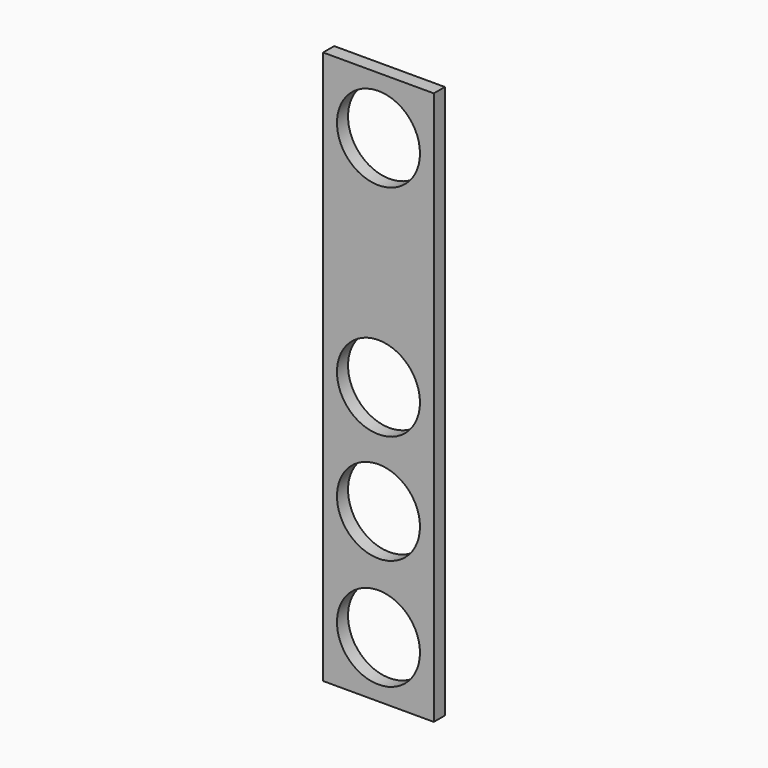
from build123d import *

# Parameters (mm, degrees)
F0_W     = 25.4
F0_H     = 127
F1_DEPTH = 1.5875
F2_R     = 9.525
F3_DEPTH = 25.4
F4_R     = 9.525
F5_DEPTH = 25.4
F6_R     = 9.525
F7_DEPTH = 25.4
F8_R     = 9.525
F9_DEPTH = 25.4


with BuildPart() as f1:
    # F0 (on Front) → F1 (new body, symmetric)
    with BuildSketch(Plane.XZ):
        Rectangle(F0_W, F0_H)
    extrude(amount=F1_DEPTH, both=True)

    # F2 (on face) → F3 (cut)
    with BuildSketch(Plane.XZ.offset(1.5875)):
        with Locations((0, 50.328158)):
            Circle(F2_R)
    extrude(amount=-F3_DEPTH, mode=Mode.SUBTRACT)

    # F4 (on face) → F5 (cut)
    with BuildSketch(Plane.XZ.offset(1.5875)):
        with Locations((0, -50.553336)):
            Circle(F4_R)
    extrude(amount=-F5_DEPTH, mode=Mode.SUBTRACT)

    # F6 (on face) → F7 (cut)
    with BuildSketch(Plane.XZ.offset(1.5875)):
        Circle(F6_R)
    extrude(amount=-F7_DEPTH, mode=Mode.SUBTRACT)

    # F8 (on face) → F9 (cut)
    with BuildSketch(Plane.XZ.offset(1.5875)):
        with Locations((0, -25.097863)):
            Circle(F8_R)
    extrude(amount=-F9_DEPTH, mode=Mode.SUBTRACT)


solid = f1.part
